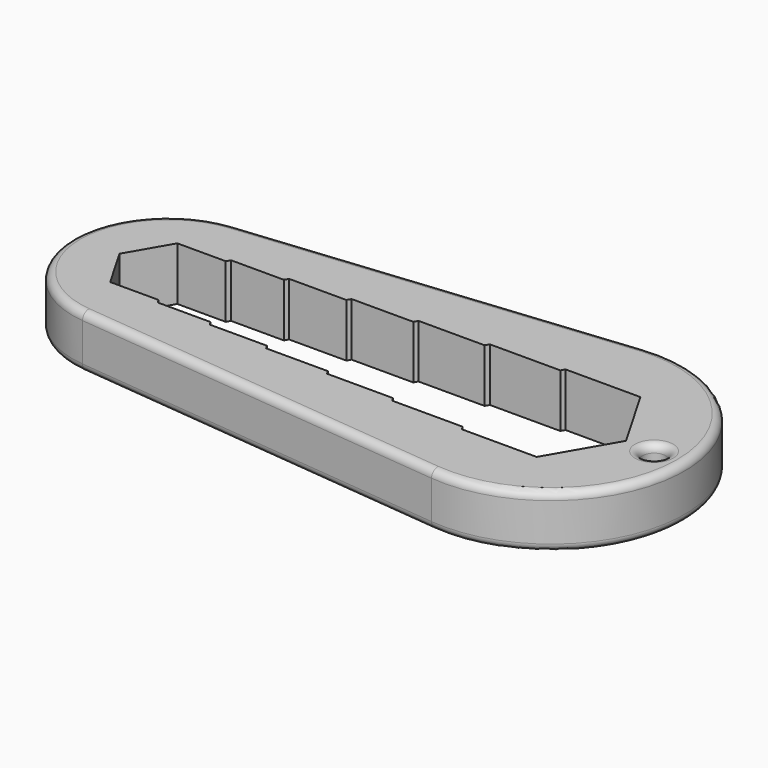
from build123d import *

# Parameters (mm, degrees)
F0_R     = 1.5
F1_DEPTH = 7
F2_R     = 1
F3_R     = 1


with BuildPart() as f1:
    # F0 (on Top) → F1 (new body)
    with BuildSketch(Plane.XY):
        with BuildLine():
            Line((-51.473763, -12.437916), (-1.742005, -17.413082))
            ThreePointArc((-1.742005, -17.413082), (17.5, 0), (-1.742005, 17.413082))
            Line((-1.742005, 17.413082), (-51.473763, 12.437916))
            ThreePointArc((-51.473763, 12.437916), (-62.729473, 0), (-51.473763, -12.437916))
        make_face()
        Polygon((4.907477, 8.5), (9.814955, 0), (4.907477, -8.5), (-4.907477, -8.5), (-5.196152, -8), (-14.433757, -8), (-14.722432, -7.5), (-23.382686, -7.5), (-23.671361, -7), (-31.754265, -7), (-32.04294, -6.5), (-39.548493, -6.5), (-39.837169, -6), (-46.765372, -6), (-47.054047, -5.5), (-53.4049, -5.5), (-56.580326, 0), (-53.4049, 5.5), (-47.054047, 5.5), (-46.765372, 6), (-39.837169, 6), (-39.548493, 6.5), (-32.04294, 6.5), (-31.754265, 7), (-23.671361, 7), (-23.382686, 7.5), (-14.722432, 7.5), (-14.433757, 8), (-5.196152, 8), (-4.907477, 8.5), align=None, mode=Mode.SUBTRACT)
        with Locations((13.5, 0)):
            Circle(F0_R, mode=Mode.SUBTRACT)
    extrude(amount=F1_DEPTH)

    # F2
    f2_edges = [f1.edges().sort_by_distance(p)[0] for p in [
        (-62.729473, 0, 7),
        (-26.607884, -14.925499, 0),
    ]]
    fillet(f2_edges, radius=F2_R)

    # F3
    f3_edges = [f1.edges().sort_by_distance(p)[0] for p in [
        (12, 0, 7),
        (12, 0, 0),
    ]]
    fillet(f3_edges, radius=F3_R)


solid = f1.part
